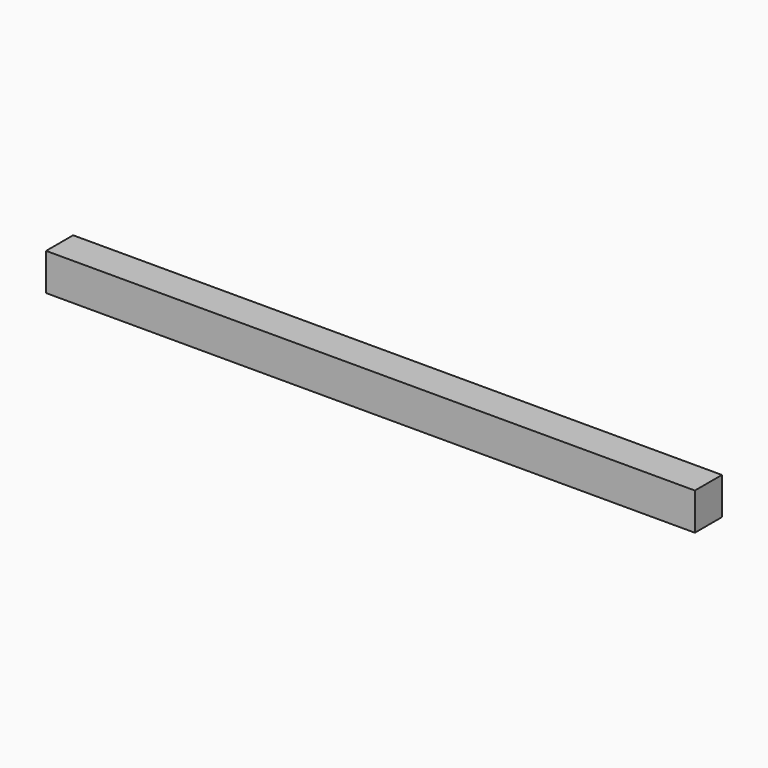
from build123d import *

# Parameters (mm, degrees)
F0_W     = 609.6
F0_H     = 31.75
F1_DEPTH = 34.925
F3_D     = 1.190625
F3_DEPTH = 19.05
F3_TIP   = 0.3576998373


with BuildPart() as f1:
    # F0 (on Top) → F1 (new body)
    with BuildSketch(Plane.XY):
        Rectangle(F0_W, F0_H)
    extrude(amount=F1_DEPTH)

    # F3
    with Locations(Plane(origin=(0, 0, 0), x_dir=(1, 0, 0), z_dir=(0, 0, -1))):
        with Locations((-190.5, 0), (190.5, 0)):
            Hole(F3_D / 2, depth=F3_DEPTH)
            with Locations((0, 0, -(F3_DEPTH + F3_TIP / 2))):  # 118° drill point
                Cone(0, F3_D / 2, F3_TIP, mode=Mode.SUBTRACT)


solid = f1.part
